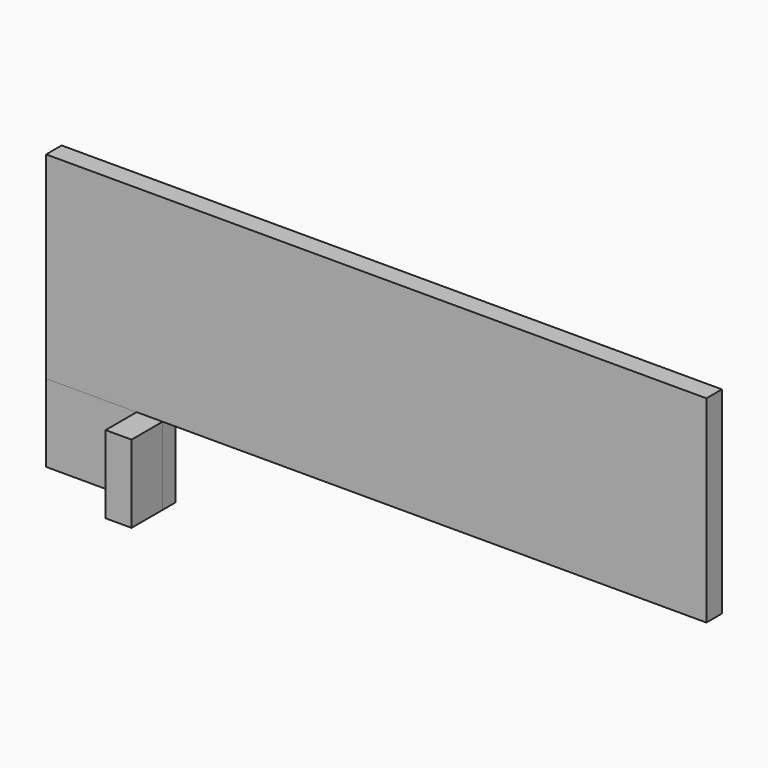
from build123d import *

# Parameters (mm, degrees)
F0_W     = 114.3
F0_H     = 76.2
F1_DEPTH = 15.875
F2_W     = 25.4
F2_H     = 76.2
F3_DEPTH = 38.1
F4_W     = 19.05
F4_H     = 193.675
F5_DEPTH = 647.7


with BuildPart() as f1:
    # F0 (on Front) → F1 (new body)
    with BuildSketch(Plane.XZ):
        Rectangle(F0_W, F0_H)
    extrude(amount=F1_DEPTH)


with BuildPart() as f3:
    # F2 (on face) → F3 (new body)
    with BuildSketch(Plane.XZ.offset(15.875)):
        with Locations((44.45, 0)):
            Rectangle(F2_W, F2_H)
    extrude(amount=F3_DEPTH)


with BuildPart() as f5:
    # F4 (on face) → F5 (new body)
    with BuildSketch(Plane(origin=(-57.15, 0, 0), x_dir=(0, -1, 0), z_dir=(-1, 0, 0))):
        with Locations((6.35, 134.9375)):
            Rectangle(F4_W, F4_H)
    extrude(amount=-F5_DEPTH)


solid = Compound([f1.part, f3.part, f5.part])
